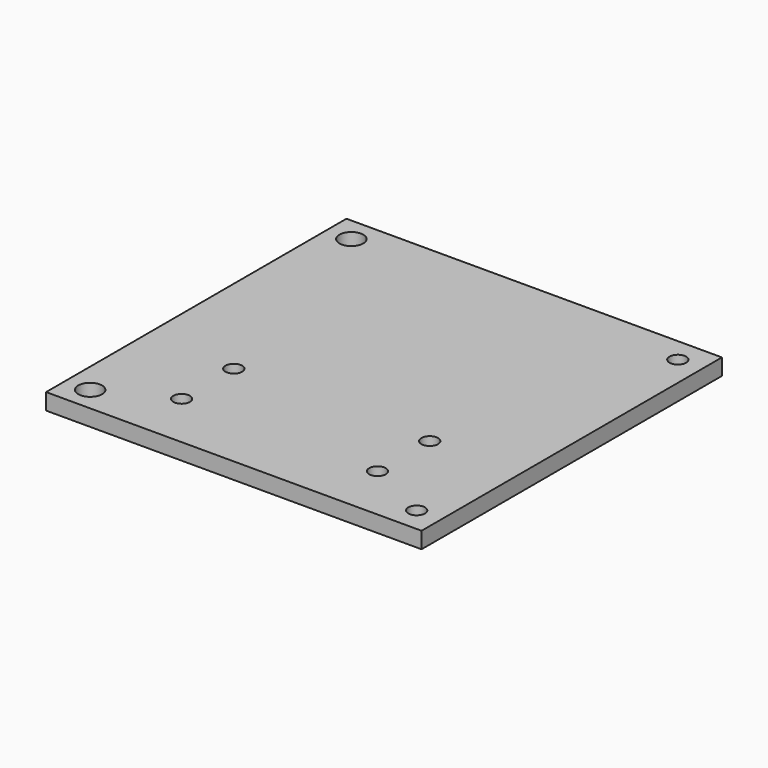
from build123d import *

# Parameters (mm, degrees)
F1_W     = 115
F1_H     = 115
F1_W_2   = 100
F1_H_2   = 100
F2_DEPTH = 5
F3_D     = 5.1
F0_D     = 7.3
F5_D     = 5.1


with BuildPart() as f2:
    # F1 (on Top) → F2 (new body)
    with BuildSketch(Plane.XY):
        Rectangle(F1_W, F1_H)
        Rectangle(F1_W_2, F1_H_2, mode=Mode.SUBTRACT)
        Rectangle(F1_W_2, F1_H_2)
    extrude(amount=F2_DEPTH)

    # F3 (through all)
    with Locations(Plane(origin=(0, 0, 0), x_dir=(1, 0, 0), z_dir=(0, 0, -1))):
        with Locations((50, 50), (50, -50)):
            Hole(F3_D / 2)

    # F0 (through all)
    with Locations(Plane(origin=(0, 0, 0), x_dir=(1, 0, 0), z_dir=(0, 0, -1))):
        with Locations((-50, -50), (-50, 50)):
            Hole(F0_D / 2)

    # F5 (through all)
    with Locations(Plane.XY.offset(5)):
        with Locations((30, -20), (30, -40), (-30, -20), (-30, -40)):
            Hole(F5_D / 2)


solid = f2.part
